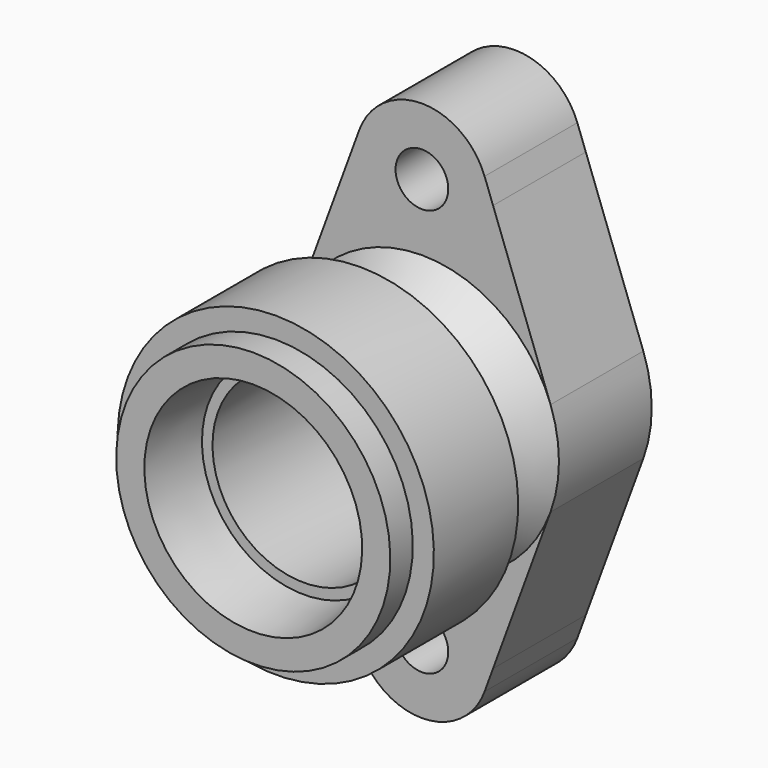
from build123d import *

# Parameters (mm, degrees)
F2_R     = 7.5
F3_DEPTH = 33


with BuildPart() as f1:
    # F0 (on Right) → F1 (revolve)
    with BuildSketch(Plane.YZ):
        with BuildLine():
            Line((-60, 39), (-60, 31))
            Line((-60, 31), (-42, 29))
            Line((-42, 29), (-42, 26))
            Line((-42, 26), (0, 26))
            Line((0, 26), (0, 0))
            Line((0, 0), (30, 0))
            Line((30, 0), (30, 32))
            Line((30, 32), (33, 32))
            Line((33, 32), (33, 39))
            Line((33, 39), (0, 39))
            Line((0, 39), (-14.1321178182, 29.1045845728))
            ThreePointArc((-14.1321178182, 29.1045845728), (-19.3087430662, 28.7652906284), (-22, 33.2003447942))
            Line((-22, 33.2003447942), (-22, 45))
            Line((-22, 45), (-52, 45))
            Line((-52, 45), (-52, 39))
            Line((-52, 39), (-60, 39))
        make_face()
    revolve(axis=Axis((0, 15, 0), (0, -1, 0)))

    # F2 (on face) → F3 (join)
    with BuildSketch(Plane(origin=(0, 33, 0), x_dir=(-1, 0, 0), z_dir=(0, 1, 0))):
        with BuildLine():
            Line((20.2414907731, 58), (17.8346547716, 64.5517241379))
            ThreePointArc((17.8346547716, 64.5517241379), (0, 77), (-17.8346547716, 64.5517241379))
            Line((-17.8346547716, 64.5517241379), (-20.2414907731, 58))
            Line((-20.2414907731, 58), (-36.6079755837, 13.4482758621))
            ThreePointArc((-36.6079755837, 13.4482758621), (0, 39), (36.6079755837, 13.4482758621))
            Line((36.6079755837, 13.4482758621), (20.2414907731, 58))
        make_face()
        with Locations((0, 58)):
            Circle(F2_R, mode=Mode.SUBTRACT)
        with BuildLine():
            ThreePointArc((36.6079755837, -13.4482758621), (0, -39), (-36.6079755837, -13.4482758621))
            Line((-36.6079755837, -13.4482758621), (-20.2414907731, -58))
            Line((-20.2414907731, -58), (-17.8346547716, -64.5517241379))
            ThreePointArc((-17.8346547716, -64.5517241379), (0, -77), (17.8346547716, -64.5517241379))
            Line((17.8346547716, -64.5517241379), (20.2414907731, -58))
            Line((20.2414907731, -58), (36.6079755837, -13.4482758621))
        make_face()
        with Locations((0, -58)):
            Circle(F2_R, mode=Mode.SUBTRACT)
    extrude(amount=-F3_DEPTH)


solid = f1.part
